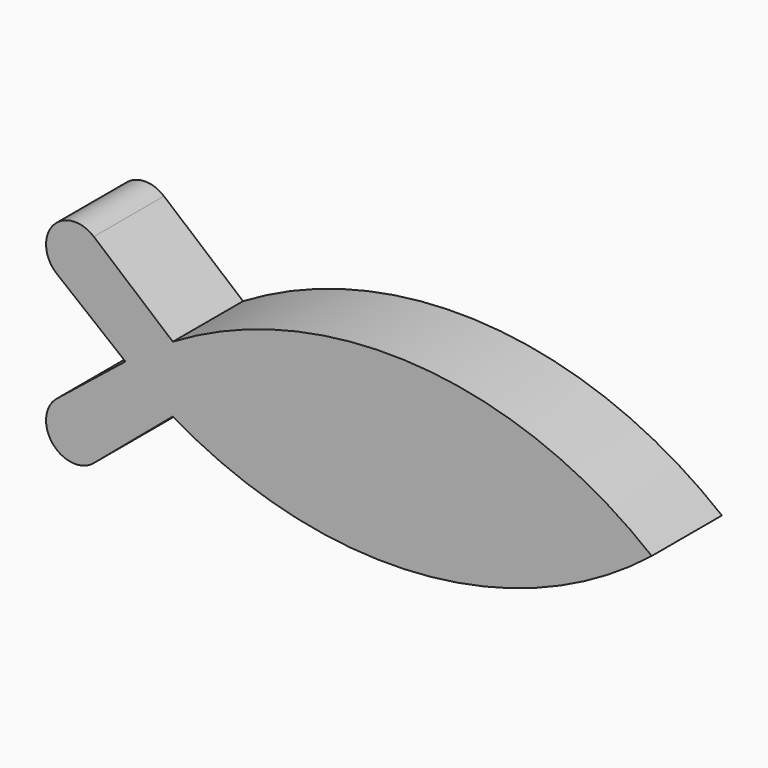
from build123d import *

# Parameters (mm, degrees)
F1_DEPTH = 25


with BuildPart() as f1:
    # F0 (on Front) → F1 (new body)
    with BuildSketch(Plane.XZ):
        with BuildLine():
            ThreePointArc((13.51559, -9.3768), (83.224894, -26.042828), (150, 0))
            ThreePointArc((150, 0), (83.224894, 26.042828), (13.51559, 9.3768))
            ThreePointArc((13.51559, 9.3768), (6.596932, 4.920265), (0, 0))
            ThreePointArc((0, 0), (6.596932, -4.920265), (13.51559, -9.3768))
        make_face()
        with BuildLine():
            ThreePointArc((0, 0), (6.596932, 4.920265), (13.51559, 9.3768))
            Line((13.51559, 9.3768), (-9.007419, 28.40198))
            ThreePointArc((-9.007419, 28.40198), (-20.734502, 27.33708), (-19.515619, 15.625))
            Line((-19.515619, 15.625), (0, 0))
        make_face()
        with BuildLine():
            Line((-9.007419, -28.40198), (13.51559, -9.3768))
            ThreePointArc((13.51559, -9.3768), (6.596932, -4.920265), (0, 0))
            Line((0, 0), (-19.515619, -15.625))
            ThreePointArc((-19.515619, -15.625), (-20.734502, -27.33708), (-9.007419, -28.40198))
        make_face()
    extrude(amount=F1_DEPTH)


solid = f1.part
